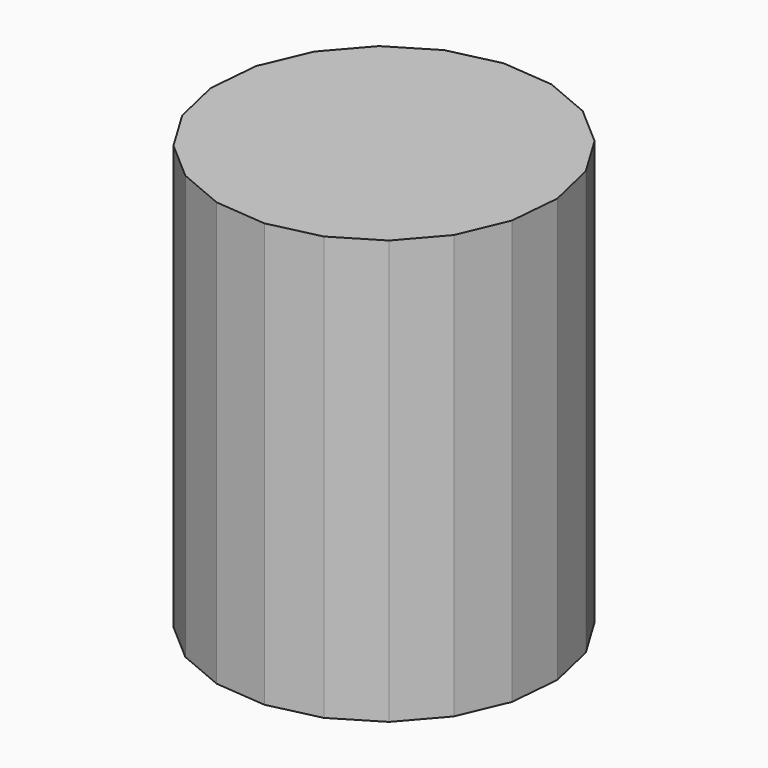
from build123d import *

# Parameters (mm, degrees)
F1_DEPTH = 19.05


with BuildPart() as f1:
    # F0 (on Top) → F1 (new body)
    with BuildSketch(Plane.XY):
        Polygon((5.659421, 4.75631), (3.912648, 6.272377), (1.782879, 7.17446), (-0.521412, 7.374257), (-2.774663, 6.85221), (-4.75631, 5.659421), (-6.272377, 3.912648), (-7.17446, 1.782879), (-7.374257, -0.521412), (-6.85221, -2.774663), (-5.659421, -4.75631), (-3.912648, -6.272377), (-1.782879, -7.17446), (0.521412, -7.374257), (2.774663, -6.85221), (4.75631, -5.659421), (6.272377, -3.912648), (7.17446, -1.782879), (7.374257, 0.521412), (6.85221, 2.774663), align=None)
    extrude(amount=F1_DEPTH)


solid = f1.part
